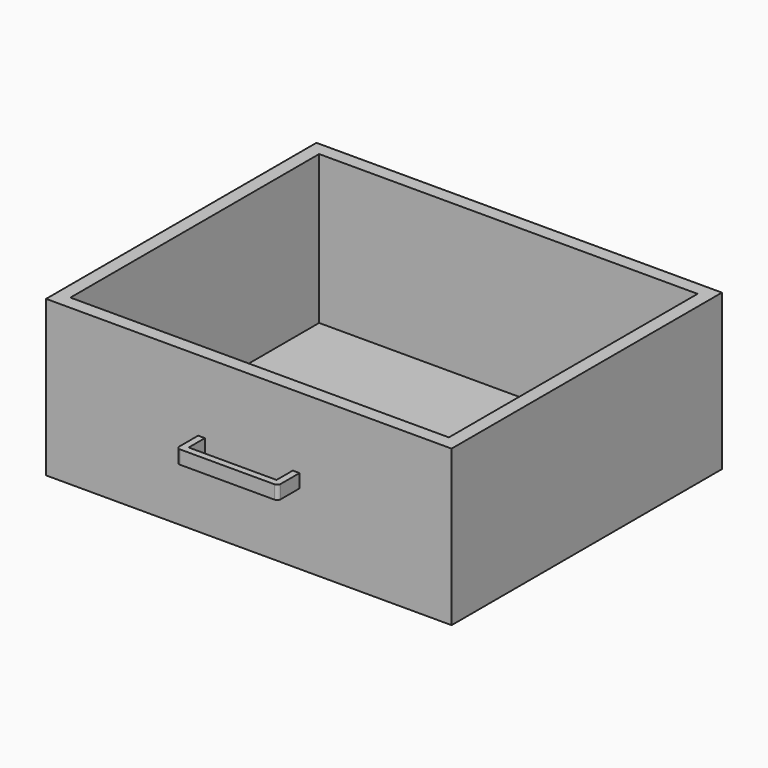
from build123d import *

# Parameters (mm, degrees)
F0_W     = 60
F0_H     = 23
F1_DEPTH = 25
F2_W     = 56
F2_H     = 46
F3_DEPTH = 22
F4_W     = 15
F4_H     = 2
F5_DEPTH = 4
F6_W     = 13
F6_H     = 3
F7_DEPTH = 2
F8_R     = 0.5


with BuildPart() as f1:
    # F0 (on Front) → F1 (new body, symmetric)
    with BuildSketch(Plane.XZ):
        Rectangle(F0_W, F0_H)
    extrude(amount=F1_DEPTH, both=True)

    # F2 (on face) → F3 (cut)
    with BuildSketch(Plane.XY.offset(11.5)):
        Rectangle(F2_W, F2_H)
    extrude(amount=-F3_DEPTH, mode=Mode.SUBTRACT)

    # F4 (on face) → F5 (join)
    with BuildSketch(Plane.XZ.offset(25)):
        Rectangle(F4_W, F4_H)
    extrude(amount=F5_DEPTH)

    # F6 (on face) → F7 (cut)
    with BuildSketch(Plane.XY.offset(1)):
        with Locations((0, -26.5)):
            Rectangle(F6_W, F6_H)
    extrude(amount=-F7_DEPTH, mode=Mode.SUBTRACT)

    # F8
    f8_edges = [f1.edges().sort_by_distance(p)[0] for p in [
        (-7.5, -29, 0),
        (7.5, -29, 0),
    ]]
    fillet(f8_edges, radius=F8_R)


solid = f1.part
